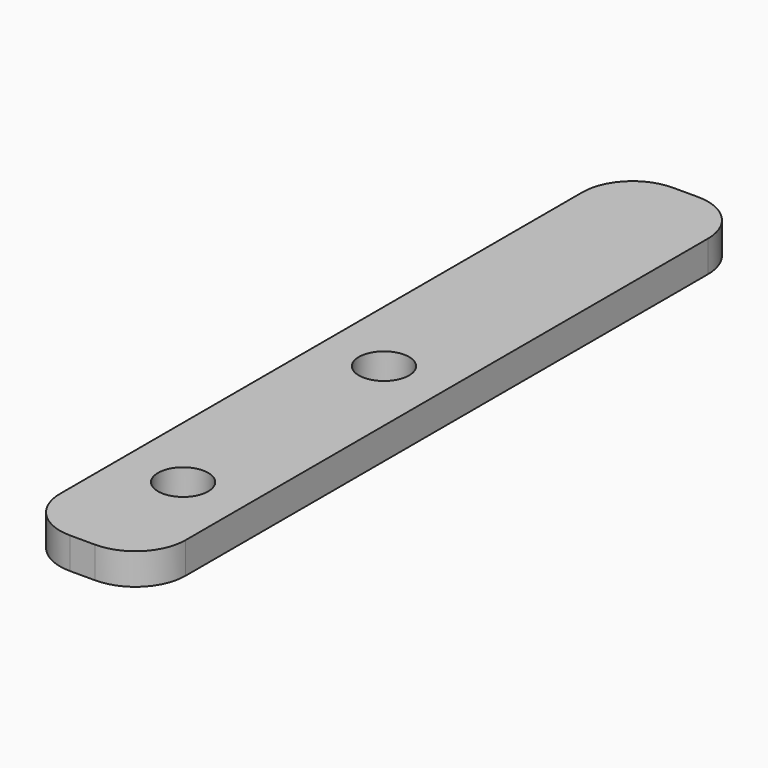
from build123d import *

# Parameters (mm, degrees)
F0_R     = 2.54
F1_DEPTH = 3.175


with BuildPart() as f1:
    # F0 (on Top) → F1 (new body)
    with BuildSketch(Plane.XY):
        with BuildLine():
            ThreePointArc((6.35, 33.02), (4.862102, 36.612102), (1.27, 38.1))
            Line((1.27, 38.1), (-1.27, 38.1))
            ThreePointArc((-1.27, 38.1), (-4.862102, 36.612102), (-6.35, 33.02))
            Line((-6.35, 33.02), (-6.35, -33.02))
            ThreePointArc((-6.35, -33.02), (-4.862102, -36.612102), (-1.27, -38.1))
            Line((-1.27, -38.1), (1.27, -38.1))
            ThreePointArc((1.27, -38.1), (4.862102, -36.612102), (6.35, -33.02))
            Line((6.35, -33.02), (6.35, 33.02))
        make_face()
        with Locations((0, -25.4)):
            Circle(F0_R, mode=Mode.SUBTRACT)
        Circle(F0_R, mode=Mode.SUBTRACT)
    extrude(amount=F1_DEPTH)


solid = f1.part
